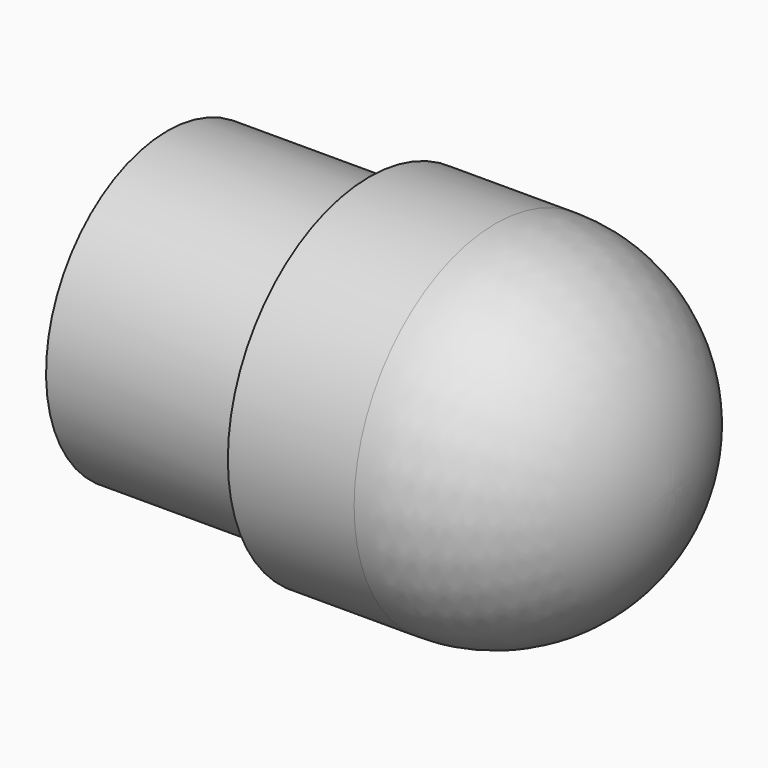
from build123d import *

# Parameters (mm, degrees)
F0_W = 20
F0_H = 15


with BuildPart() as f1:
    # F0 (on Front) → F1 (revolve)
    with BuildSketch(Plane.XZ):
        with Locations((10, 7.5)):
            Rectangle(F0_W, F0_H)
        Polygon((20, 15), (20, 0), (32.5, 0), (32.5, 17.5), (20, 17.5), align=None)
        with BuildLine():
            Line((32.5, 17.5), (32.5, 0))
            Line((32.5, 0), (50, 0))
            ThreePointArc((50, 0), (44.874369, 12.374369), (32.5, 17.5))
        make_face()
    revolve(axis=Axis((41.25, 0, 0), (1, 0, 0)))


solid = f1.part
